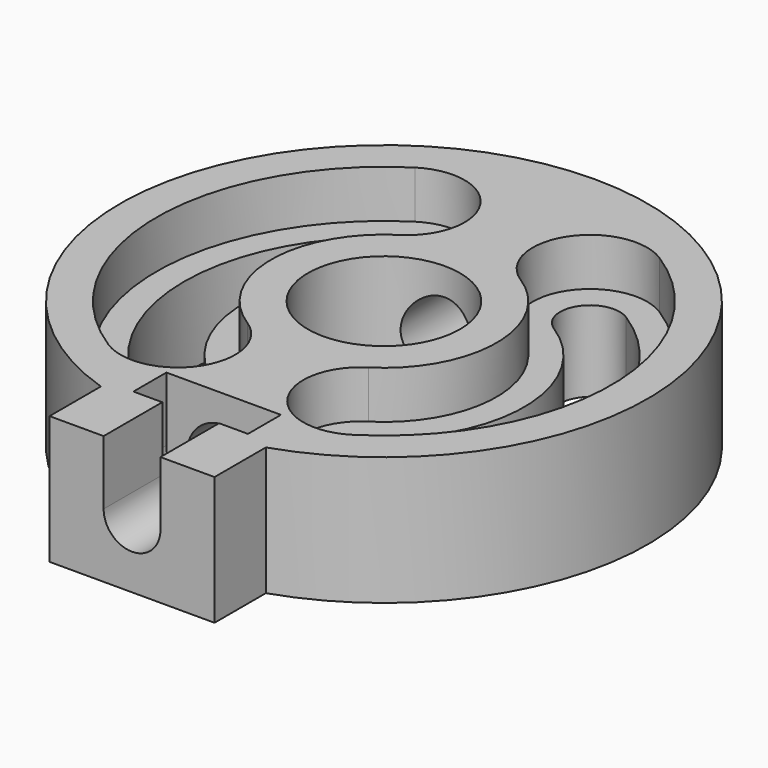
from build123d import *

# Parameters (mm, degrees)
SKETCH_R        = 4.15
EXTRUDE_DEPTH   = 7
SKETCH001_R     = 1.55
POCKET_DEPTH    = 4
SKETCH002_R     = 2
POCKET001_DEPTH = 27.5798157383
POCKET002_DEPTH = 3.5
POCKET003_DEPTH = 2.25
POCKET004_DEPTH = 2.6


with BuildPart() as part:
    # Sketch → Extrude (new body)
    with BuildSketch(Plane.XY):
        with BuildLine():
            ThreePointArc((4.5, -13.6788157382), (0, 14.4), (-4.5, -13.6788157382))
            Line((-4.5, -13.6788157382), (-4.5, -17.1788157382))
            Line((-4.5, -17.1788157382), (4.5, -17.1788157382))
            Line((4.5, -17.1788157382), (4.5, -13.6788157382))
        make_face()
        Circle(SKETCH_R, mode=Mode.SUBTRACT)
        with BuildLine():
            ThreePointArc((-4.1103420039, 6.4519445605), (-7.65, 0), (-4.1103420039, -6.4519445605))
            ThreePointArc((-5.856565731, -9.1929667594), (-3.612942768, -8.6955675235), (-4.1103420039, -6.4519445605))
            ThreePointArc((-5.856565731, 9.1929667594), (-10.9, 0), (-5.856565731, -9.1929667594))
            ThreePointArc((-4.1103420039, 6.4519445605), (-3.612942768, 8.6955675235), (-5.856565731, 9.1929667594))
        make_face(mode=Mode.SUBTRACT)
        with BuildLine():
            ThreePointArc((4.1103420039, -6.4519445605), (7.65, 0), (4.1103420039, 6.4519445605))
            ThreePointArc((5.856565731, 9.1929667594), (3.612942768, 8.6955675235), (4.1103420039, 6.4519445605))
            ThreePointArc((5.856565731, -9.1929667594), (10.9, 0), (5.856565731, 9.1929667594))
            ThreePointArc((4.1103420039, -6.4519445605), (3.612942768, -8.6955675235), (5.856565731, -9.1929667594))
        make_face(mode=Mode.SUBTRACT)
    extrude(amount=EXTRUDE_DEPTH)

    # Sketch001 → Pocket (cut)
    with BuildSketch(Plane.XZ.offset(17.1788157382)):
        with Locations((0, 3.5)):
            Circle(SKETCH001_R)
    extrude(amount=-POCKET_DEPTH, mode=Mode.SUBTRACT)

    # Sketch002 → Pocket001 (cut, through all)
    with BuildSketch(Plane.XZ.offset(13.1788157382)):
        with Locations((0, 3.5)):
            Circle(SKETCH002_R)
    extrude(amount=-POCKET001_DEPTH, mode=Mode.SUBTRACT)

    # Sketch003 → Pocket002 (cut)
    with BuildSketch(Plane.XY.offset(7)):
        Polygon((1.55, -17.1788157382), (-1.55, -17.1788157382), (-1.55, -13.1788157382), (-3.125, -13.1788157382), (-3.125, -10.9288157382), (3.125, -10.9288157382), (3.125, -13.1788157382), (1.55, -13.1788157382), align=None)
    extrude(amount=-POCKET002_DEPTH, mode=Mode.SUBTRACT)

    # Sketch004 → Pocket003 (cut)
    with BuildSketch(Plane.XZ.offset(10.9288157382)):
        with BuildLine():
            Line((-3.125, 3.5), (3.125, 3.5))
            ThreePointArc((-3.125, 3.5), (0, 0.375), (3.125, 3.5))
        make_face()
    extrude(amount=POCKET003_DEPTH, mode=Mode.SUBTRACT)

    # Sketch005 → Pocket004 (cut)
    with BuildSketch(Plane.XY.offset(7)):
        with BuildLine():
            ThreePointArc((-3.3043925913, 5.1868573917), (-2.3478555993, 9.501516936), (-6.6625151435, 10.4580539281))
            ThreePointArc((-6.6625151435, 10.4580539281), (-12.4, 0), (-6.6625151435, -10.4580539281))
            ThreePointArc((-6.6625151435, -10.4580539281), (-2.3478555993, -9.501516936), (-3.3043925913, -5.1868573918))
            ThreePointArc((-3.3043925913, 5.1868573917), (-6.15, 0), (-3.3043925913, -5.1868573918))
        make_face()
        with BuildLine():
            ThreePointArc((6.6625151435, 10.4580539281), (2.3478555993, 9.501516936), (3.3043925913, 5.1868573917))
            ThreePointArc((3.3043925913, -5.1868573917), (6.15, 0), (3.3043925913, 5.1868573917))
            ThreePointArc((3.3043925913, -5.1868573917), (2.3478555993, -9.501516936), (6.6625151435, -10.4580539281))
            ThreePointArc((6.6625151435, -10.4580539281), (12.4, 0), (6.6625151435, 10.4580539281))
        make_face()
    extrude(amount=-POCKET004_DEPTH, mode=Mode.SUBTRACT)


solid = part.part
